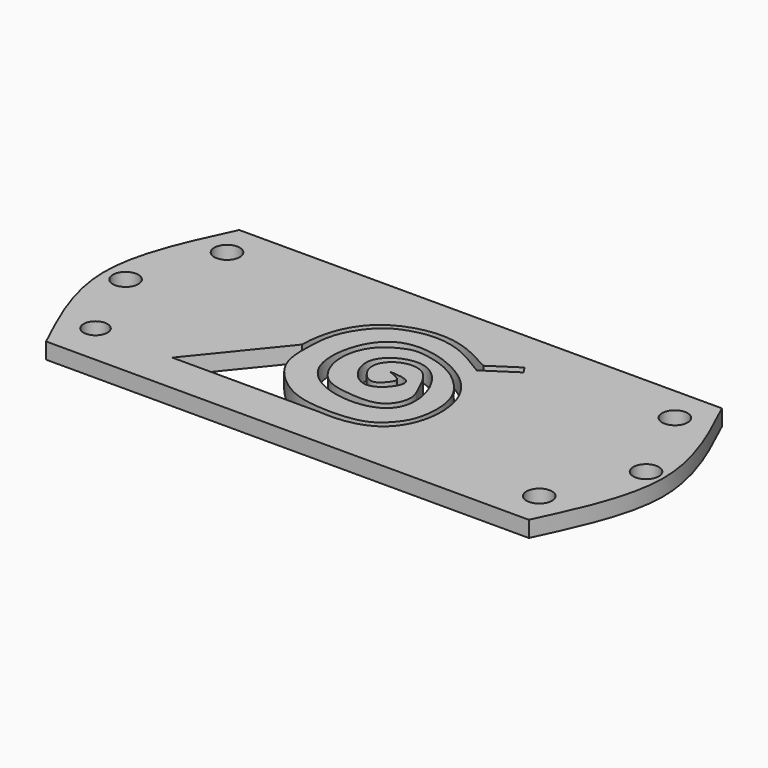
from build123d import *

# Parameters (mm, degrees)
F0_R     = 3.7787519417
F0_R_2   = 4.0377959095
F1_DEPTH = 5.08
F2_DEPTH = 5.08


with BuildPart() as f1:
    # F0 (on Top) → F1 (new body)
    with BuildSketch(Plane.XY):
        with BuildLine():
            Line((76.3914585114, 38.1957292557), (0, 38.1957292557))
            Line((0, 38.1957292557), (-22.5648546397, 38.1957292557))
            add(Edge.make_bspline(
                [(-40.8889541995, 38.1957292557), (-34.7211953947, 36.637008824), (-27.9158040374, 36.4560822958), (-22.5648546397, 38.1957292557)],
                knots=[0.2817975312, 0.2817975312, 0.2817975312, 0.2817975312, 0.3242989249, 0.3242989249, 0.3242989249, 0.3242989249], degree=3))
            Line((-40.8889541995, 38.1957292557), (-76.3914585114, 38.1957292557))
            add(Edge.make_bspline(
                [(-76.3914585114, 38.1957292557), (-82.4223645031, 25.4638195038), (-94.4841764867, 0), (-82.4223645031, -25.4638195038), (-76.3914585114, -38.1957292557)],
                knots=[0, 0, 0, 0, 0.5, 1, 1, 1, 1], degree=3))
            Line((-76.3914585114, -38.1957292557), (0, -38.1957292557))
            Line((0, -38.1957292557), (76.3914585114, -38.1957292557))
            add(Edge.make_bspline(
                [(76.3914585114, 38.1957292557), (82.4223645031, 25.4638195038), (94.4841764867, 0), (82.4223645031, -25.4638195038), (76.3914585114, -38.1957292557)],
                knots=[0, 0, 0, 0, 0.5, 1, 1, 1, 1], degree=3))
        make_face()
        with Locations((-71.2490677834, -25.0698365271)):
            Circle(F0_R, mode=Mode.SUBTRACT)
        with Locations((70.4828128219, -26.6659166664)):
            Circle(F0_R_2, mode=Mode.SUBTRACT)
        with Locations((-81.7831978202, 0)):
            Circle(F0_R_2, mode=Mode.SUBTRACT)
        with BuildLine():
            add(Edge.make_bspline(
                [(16.0824116319, 19.1648751497), (11.0371645032, 21.9927841214), (0.5893376288, 27.8488903932), (-21.5584551846, 21.6084745712), (-25.8749879463, 7.2272355313), (-25.9998999536, 0)],
                knots=[0, 0, 0, 0, 0.0593285028, 0.122858982, 0.1875626095, 0.1875626095, 0.1875626095, 0.1875626095], degree=3))
            Line((16.0824116319, 19.1648751497), (24.6597006917, 24.7937198728))
            Line((24.6597006917, 24.7937198728), (26.111836532, 22.580940969))
            Line((26.111836532, 22.580940969), (17.9188209011, 17.2042756289))
            Line((17.9188209011, 17.2042756289), (16.381926274, 16.1956887488))
            add(Edge.make_bspline(
                [(16.381926274, 16.1956887488), (14.1944757295, 17.5732696778), (9.871211708, 20.295912291), (3.0494832614, 23.3192317641), (-4.4282551272, 23.8869789557), (-12.0108559827, 21.9290897341), (-17.9404329976, 18.2033501808), (-23.5287952094, 9.3321135613), (-24.0348308476, -0.0192366054), (-24.0759867659, -11.7637963204), (-12.1498971788, -22.321562261), (-1.6758714904, -23.6580522915), (5.7050307728, -23.7338662743), (12.2798685455, -22.5816075788), (16.2134039593, -19.8700384097), (20.2006962064, -15.3080937159), (21.94426313, -8.7674980033), (21.5900657351, 0.3327958522), (16.6321479041, 7.4325306143), (9.5875509661, 12.9597183602), (0.0007034373, 15.1302182285), (-4.0540867158, 14.6756583848), (-11.2832427089, 10.9122091065), (-14.4201831232, 3.4516371288), (-13.9172830677, -4.2917898459), (-9.2320923768, -11.9453332165), (-0.1377039314, -13.3685952827), (10.0684536606, -13.7796692705), (13.9407164537, -5.5948715062), (10.9695829574, -0.1124717167), (7.5655766381, 7.9451543463), (-0.217611534, 8.9808183426), (-5.7676955098, 4.3223959308), (-4.9941223785, -1.5944520271), (0.0107892993, -5.9066066463), (3.3638599633, -2.288232212), (4.9187132739, 0.4016900411), (1.823290151, 1.5826962413), (0, 2.2783416789)],
                knots=[0, 0, 0, 0, 0.028594918, 0.0565148228, 0.0845001763, 0.1128730976, 0.1399113652, 0.1723372113, 0.203854484, 0.2381621152, 0.2776669315, 0.3108850914, 0.3388312312, 0.3648650929, 0.3871022745, 0.4118234519, 0.4384825725, 0.4690243729, 0.498763551, 0.5298122114, 0.5612672287, 0.5820708206, 0.6103052345, 0.6389968261, 0.6673279316, 0.6965811515, 0.727443792, 0.759101751, 0.7866560628, 0.8120829972, 0.8415365999, 0.8682234344, 0.8940167061, 0.9178753942, 0.9415131255, 0.9623264003, 0.9778092039, 1, 1, 1, 1], degree=3))
            add(Edge.make_bspline(
                [(0, -25.4694891454), (6.0212567343, -25.9949773313), (22.1787441194, -23.6178108846), (26.2661928073, 1.986543979), (9.7226515112, 16.2938611097), (-13.5173949154, 19.4132763358), (-20.015358443, -8.9883902426), (-0.5050016078, -17.9082455598), (15.2065324186, -14.1492166648), (15.2734281638, 0.5835924558), (4.8977484454, 14.1708859416), (-12.3961359634, 4.8224869596), (-0.4934383857, -11.9882499871), (10.0955294907, 1.6908619906), (3.1918333574, 2.092602311), (0, 2.2783416789)],
                knots=[0.2963035494, 0.2963035494, 0.2963035494, 0.2963035494, 0.3365456266, 0.4055320666, 0.4700633109, 0.5319893575, 0.5978042659, 0.6585737627, 0.710908154, 0.7608861517, 0.8153213782, 0.8668907787, 0.9177396101, 0.9619679877, 1, 1, 1, 1], degree=3))
            Line((0, -25.4694891454), (-46.638995409, -25.4694891454))
            Line((-46.638995409, -25.4694891454), (-25.9998999536, 0))
        make_face(mode=Mode.SUBTRACT)
        with Locations((-71.2490677834, 26.9623622298)):
            Circle(F0_R_2, mode=Mode.SUBTRACT)
        with Locations((82.9322338104, 0)):
            Circle(F0_R_2, mode=Mode.SUBTRACT)
        with Locations((70.4828128219, 26.9623622298)):
            Circle(F0_R_2, mode=Mode.SUBTRACT)
        with BuildLine():
            add(Edge.make_bspline(
                [(-40.8889541995, 38.1957292557), (-34.7211953947, 36.637008824), (-27.9158040374, 36.4560822958), (-22.5648546397, 38.1957292557)],
                knots=[0.2817975312, 0.2817975312, 0.2817975312, 0.2817975312, 0.3242989249, 0.3242989249, 0.3242989249, 0.3242989249], degree=3))
            Line((-22.5648546397, 38.1957292557), (-40.8889541995, 38.1957292557))
        make_face()
    extrude(amount=F1_DEPTH)

    # F0 (on Top) → F2 (join)
    with BuildSketch(Plane.XY):
        with BuildLine():
            Line((76.3914585114, 38.1957292557), (0, 38.1957292557))
            Line((0, 38.1957292557), (-22.5648546397, 38.1957292557))
            add(Edge.make_bspline(
                [(-40.8889541995, 38.1957292557), (-34.7211953947, 36.637008824), (-27.9158040374, 36.4560822958), (-22.5648546397, 38.1957292557)],
                knots=[0.2817975312, 0.2817975312, 0.2817975312, 0.2817975312, 0.3242989249, 0.3242989249, 0.3242989249, 0.3242989249], degree=3))
            Line((-40.8889541995, 38.1957292557), (-76.3914585114, 38.1957292557))
            add(Edge.make_bspline(
                [(-76.3914585114, 38.1957292557), (-82.4223645031, 25.4638195038), (-94.4841764867, 0), (-82.4223645031, -25.4638195038), (-76.3914585114, -38.1957292557)],
                knots=[0, 0, 0, 0, 0.5, 1, 1, 1, 1], degree=3))
            Line((-76.3914585114, -38.1957292557), (0, -38.1957292557))
            Line((0, -38.1957292557), (76.3914585114, -38.1957292557))
            add(Edge.make_bspline(
                [(76.3914585114, 38.1957292557), (82.4223645031, 25.4638195038), (94.4841764867, 0), (82.4223645031, -25.4638195038), (76.3914585114, -38.1957292557)],
                knots=[0, 0, 0, 0, 0.5, 1, 1, 1, 1], degree=3))
        make_face()
        with Locations((-71.2490677834, -25.0698365271)):
            Circle(F0_R, mode=Mode.SUBTRACT)
        with Locations((70.4828128219, -26.6659166664)):
            Circle(F0_R_2, mode=Mode.SUBTRACT)
        with Locations((-81.7831978202, 0)):
            Circle(F0_R_2, mode=Mode.SUBTRACT)
        with BuildLine():
            add(Edge.make_bspline(
                [(16.0824116319, 19.1648751497), (11.0371645032, 21.9927841214), (0.5893376288, 27.8488903932), (-21.5584551846, 21.6084745712), (-25.8749879463, 7.2272355313), (-25.9998999536, 0)],
                knots=[0, 0, 0, 0, 0.0593285028, 0.122858982, 0.1875626095, 0.1875626095, 0.1875626095, 0.1875626095], degree=3))
            Line((16.0824116319, 19.1648751497), (24.6597006917, 24.7937198728))
            Line((24.6597006917, 24.7937198728), (26.111836532, 22.580940969))
            Line((26.111836532, 22.580940969), (17.9188209011, 17.2042756289))
            Line((17.9188209011, 17.2042756289), (16.381926274, 16.1956887488))
            add(Edge.make_bspline(
                [(16.381926274, 16.1956887488), (14.1944757295, 17.5732696778), (9.871211708, 20.295912291), (3.0494832614, 23.3192317641), (-4.4282551272, 23.8869789557), (-12.0108559827, 21.9290897341), (-17.9404329976, 18.2033501808), (-23.5287952094, 9.3321135613), (-24.0348308476, -0.0192366054), (-24.0759867659, -11.7637963204), (-12.1498971788, -22.321562261), (-1.6758714904, -23.6580522915), (5.7050307728, -23.7338662743), (12.2798685455, -22.5816075788), (16.2134039593, -19.8700384097), (20.2006962064, -15.3080937159), (21.94426313, -8.7674980033), (21.5900657351, 0.3327958522), (16.6321479041, 7.4325306143), (9.5875509661, 12.9597183602), (0.0007034373, 15.1302182285), (-4.0540867158, 14.6756583848), (-11.2832427089, 10.9122091065), (-14.4201831232, 3.4516371288), (-13.9172830677, -4.2917898459), (-9.2320923768, -11.9453332165), (-0.1377039314, -13.3685952827), (10.0684536606, -13.7796692705), (13.9407164537, -5.5948715062), (10.9695829574, -0.1124717167), (7.5655766381, 7.9451543463), (-0.217611534, 8.9808183426), (-5.7676955098, 4.3223959308), (-4.9941223785, -1.5944520271), (0.0107892993, -5.9066066463), (3.3638599633, -2.288232212), (4.9187132739, 0.4016900411), (1.823290151, 1.5826962413), (0, 2.2783416789)],
                knots=[0, 0, 0, 0, 0.028594918, 0.0565148228, 0.0845001763, 0.1128730976, 0.1399113652, 0.1723372113, 0.203854484, 0.2381621152, 0.2776669315, 0.3108850914, 0.3388312312, 0.3648650929, 0.3871022745, 0.4118234519, 0.4384825725, 0.4690243729, 0.498763551, 0.5298122114, 0.5612672287, 0.5820708206, 0.6103052345, 0.6389968261, 0.6673279316, 0.6965811515, 0.727443792, 0.759101751, 0.7866560628, 0.8120829972, 0.8415365999, 0.8682234344, 0.8940167061, 0.9178753942, 0.9415131255, 0.9623264003, 0.9778092039, 1, 1, 1, 1], degree=3))
            add(Edge.make_bspline(
                [(0, -25.4694891454), (6.0212567343, -25.9949773313), (22.1787441194, -23.6178108846), (26.2661928073, 1.986543979), (9.7226515112, 16.2938611097), (-13.5173949154, 19.4132763358), (-20.015358443, -8.9883902426), (-0.5050016078, -17.9082455598), (15.2065324186, -14.1492166648), (15.2734281638, 0.5835924558), (4.8977484454, 14.1708859416), (-12.3961359634, 4.8224869596), (-0.4934383857, -11.9882499871), (10.0955294907, 1.6908619906), (3.1918333574, 2.092602311), (0, 2.2783416789)],
                knots=[0.2963035494, 0.2963035494, 0.2963035494, 0.2963035494, 0.3365456266, 0.4055320666, 0.4700633109, 0.5319893575, 0.5978042659, 0.6585737627, 0.710908154, 0.7608861517, 0.8153213782, 0.8668907787, 0.9177396101, 0.9619679877, 1, 1, 1, 1], degree=3))
            Line((0, -25.4694891454), (-46.638995409, -25.4694891454))
            Line((-46.638995409, -25.4694891454), (-25.9998999536, 0))
        make_face(mode=Mode.SUBTRACT)
        with Locations((-71.2490677834, 26.9623622298)):
            Circle(F0_R_2, mode=Mode.SUBTRACT)
        with Locations((82.9322338104, 0)):
            Circle(F0_R_2, mode=Mode.SUBTRACT)
        with Locations((70.4828128219, 26.9623622298)):
            Circle(F0_R_2, mode=Mode.SUBTRACT)
        with BuildLine():
            add(Edge.make_bspline(
                [(-40.8889541995, 38.1957292557), (-34.7211953947, 36.637008824), (-27.9158040374, 36.4560822958), (-22.5648546397, 38.1957292557)],
                knots=[0.2817975312, 0.2817975312, 0.2817975312, 0.2817975312, 0.3242989249, 0.3242989249, 0.3242989249, 0.3242989249], degree=3))
            Line((-22.5648546397, 38.1957292557), (-40.8889541995, 38.1957292557))
        make_face()
    extrude(amount=F2_DEPTH)


solid = f1.part
